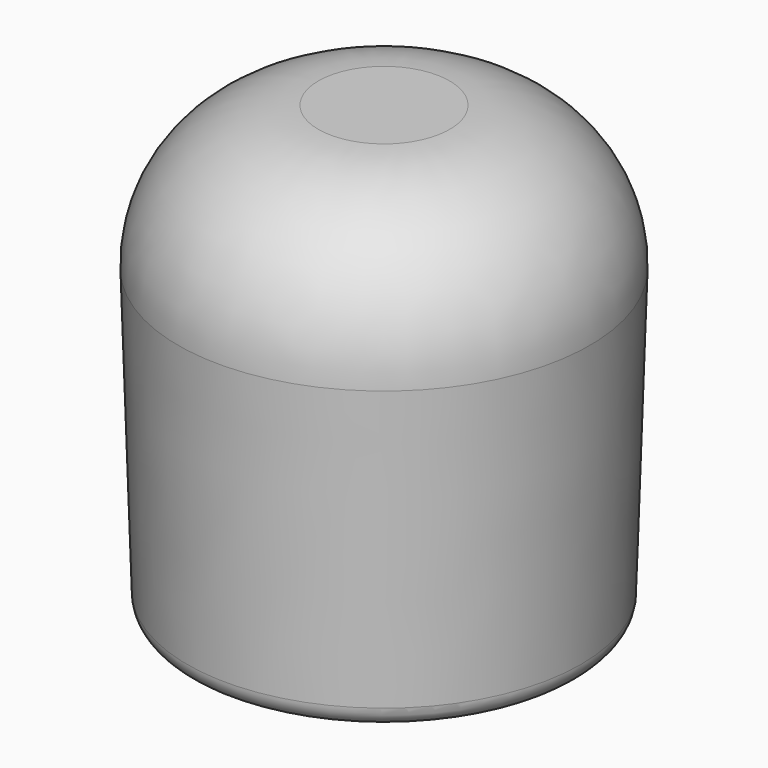
from build123d import *

# Parameters (mm, degrees)
F2_R = 2
F3_R = 0.3
F4_R = 0.2
F5_R = 0.5


with BuildPart() as f1:
    # F0 (on Front) → F1 (revolve)
    with BuildSketch(Plane.XZ):
        with BuildLine():
            Line((-2.1, 0), (-1.4, 0))
            Line((-1.4, 0), (-1.47, 2.4))
            ThreePointArc((-1.47, 2.4), (-0.888946, 3.126301), (0, 3.4))
            Line((0, 3.4), (0, 4.9))
            Line((0, 4.9), (-3, 4.9))
            Line((-3, 4.9), (-2.8, -1.5))
            Line((-2.8, -1.5), (-2.1, -1.5))
            Line((-2.1, -1.5), (-2.1, 0))
        make_face()
    revolve(axis=Axis((0, 0, 4.15), (0, 0, -1)))

    # F2
    f2_edges = [f1.edges().sort_by_distance(p)[0] for p in [
        (3, 0, 4.9),
    ]]
    fillet(f2_edges, radius=F2_R)

    # F3
    f3_edges = [f1.edges().sort_by_distance(p)[0] for p in [
        (2.8, 0, -1.5),
        (2.1, 0, -1.5),
    ]]
    fillet(f3_edges, radius=F3_R)

    # F4
    f4_edges = [f1.edges().sort_by_distance(p)[0] for p in [
        (1.47, 0, 2.4),
        (1.4, 0, 0),
    ]]
    fillet(f4_edges, radius=F4_R)

    # F5
    f5_edges = [f1.edges().sort_by_distance(p)[0] for p in [
        (2.1, 0, 0),
    ]]
    fillet(f5_edges, radius=F5_R)


solid = f1.part
